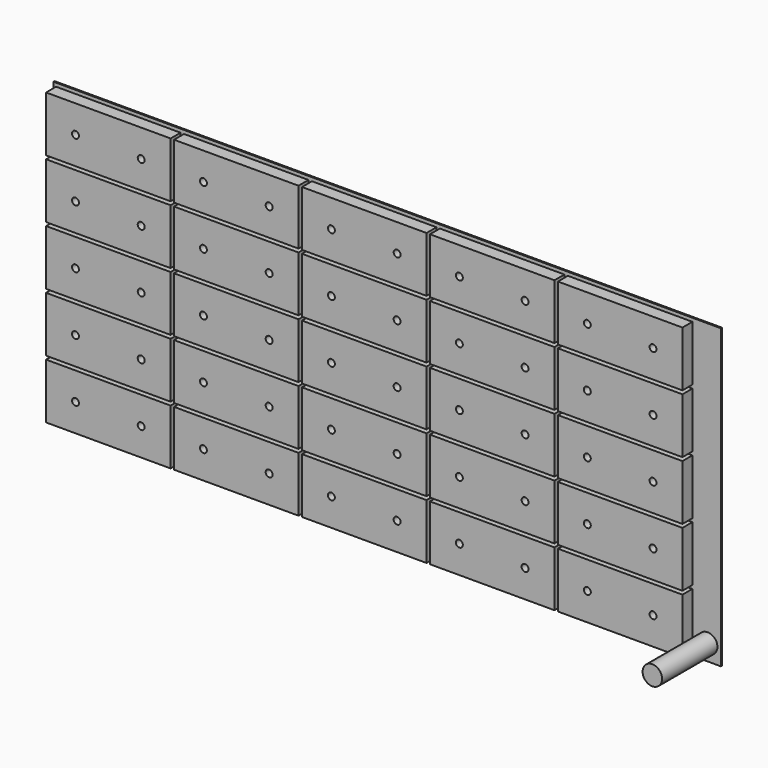
from build123d import *

# Parameters (mm, degrees)
F1_W     = 96.476763
F1_H     = 43.027435
F2_DEPTH = 0.2
F3_R     = 1.408537
F4_DEPTH = 10
F0_W     = 18
F0_H     = 8
F0_R     = 0.5
F5_DEPTH = 2


with BuildPart() as f2:
    # F1 (on Front) → F2 (new body)
    with BuildSketch(Plane.XZ):
        with Locations((38.870699, 16.998278)):
            Rectangle(F1_W, F1_H)
    extrude(amount=F2_DEPTH)

    # F3 (on face) → F4 (join)
    with BuildSketch(Plane.XZ.offset(0.2)):
        with Locations((85.209101, -2.20358)):
            Circle(F3_R)
    extrude(amount=F4_DEPTH)

    # F0 (on Front) → F5 (join)
    with BuildSketch(Plane.XZ):
        Rectangle(F0_W, F0_H)
        with Locations((-4.75, 0)):
            Circle(F0_R, mode=Mode.SUBTRACT)
        with Locations((4.75, 0)):
            Circle(F0_R, mode=Mode.SUBTRACT)
        with Locations((0, 8.5)):
            Rectangle(F0_W, F0_H)
        with Locations((-4.75, 8.5)):
            Circle(F0_R, mode=Mode.SUBTRACT)
        with Locations((4.75, 8.5)):
            Circle(F0_R, mode=Mode.SUBTRACT)
        with Locations((0, 17)):
            Rectangle(F0_W, F0_H)
        with Locations((-4.75, 17)):
            Circle(F0_R, mode=Mode.SUBTRACT)
        with Locations((4.75, 17)):
            Circle(F0_R, mode=Mode.SUBTRACT)
        with Locations((0, 25.5)):
            Rectangle(F0_W, F0_H)
        with Locations((-4.75, 25.5)):
            Circle(F0_R, mode=Mode.SUBTRACT)
        with Locations((4.75, 25.5)):
            Circle(F0_R, mode=Mode.SUBTRACT)
        with Locations((0, 34)):
            Rectangle(F0_W, F0_H)
        with Locations((-4.75, 34)):
            Circle(F0_R, mode=Mode.SUBTRACT)
        with Locations((4.75, 34)):
            Circle(F0_R, mode=Mode.SUBTRACT)
        with Locations((18.5, 0)):
            Rectangle(F0_W, F0_H)
        with Locations((13.75, 0)):
            Circle(F0_R, mode=Mode.SUBTRACT)
        with Locations((23.25, 0)):
            Circle(F0_R, mode=Mode.SUBTRACT)
        with Locations((18.5, 8.5)):
            Rectangle(F0_W, F0_H)
        with Locations((13.75, 8.5)):
            Circle(F0_R, mode=Mode.SUBTRACT)
        with Locations((23.25, 8.5)):
            Circle(F0_R, mode=Mode.SUBTRACT)
        with Locations((18.5, 17)):
            Rectangle(F0_W, F0_H)
        with Locations((13.75, 17)):
            Circle(F0_R, mode=Mode.SUBTRACT)
        with Locations((23.25, 17)):
            Circle(F0_R, mode=Mode.SUBTRACT)
        with Locations((18.5, 25.5)):
            Rectangle(F0_W, F0_H)
        with Locations((13.75, 25.5)):
            Circle(F0_R, mode=Mode.SUBTRACT)
        with Locations((23.25, 25.5)):
            Circle(F0_R, mode=Mode.SUBTRACT)
        with Locations((18.5, 34)):
            Rectangle(F0_W, F0_H)
        with Locations((13.75, 34)):
            Circle(F0_R, mode=Mode.SUBTRACT)
        with Locations((23.25, 34)):
            Circle(F0_R, mode=Mode.SUBTRACT)
        with Locations((37, 0)):
            Rectangle(F0_W, F0_H)
        with Locations((32.25, 0)):
            Circle(F0_R, mode=Mode.SUBTRACT)
        with Locations((41.75, 0)):
            Circle(F0_R, mode=Mode.SUBTRACT)
        with Locations((37, 8.5)):
            Rectangle(F0_W, F0_H)
        with Locations((32.25, 8.5)):
            Circle(F0_R, mode=Mode.SUBTRACT)
        with Locations((41.75, 8.5)):
            Circle(F0_R, mode=Mode.SUBTRACT)
        with Locations((37, 17)):
            Rectangle(F0_W, F0_H)
        with Locations((32.25, 17)):
            Circle(F0_R, mode=Mode.SUBTRACT)
        with Locations((41.75, 17)):
            Circle(F0_R, mode=Mode.SUBTRACT)
        with Locations((37, 25.5)):
            Rectangle(F0_W, F0_H)
        with Locations((32.25, 25.5)):
            Circle(F0_R, mode=Mode.SUBTRACT)
        with Locations((41.75, 25.5)):
            Circle(F0_R, mode=Mode.SUBTRACT)
        with Locations((37, 34)):
            Rectangle(F0_W, F0_H)
        with Locations((32.25, 34)):
            Circle(F0_R, mode=Mode.SUBTRACT)
        with Locations((41.75, 34)):
            Circle(F0_R, mode=Mode.SUBTRACT)
        with Locations((55.5, 0)):
            Rectangle(F0_W, F0_H)
        with Locations((50.75, 0)):
            Circle(F0_R, mode=Mode.SUBTRACT)
        with Locations((60.25, 0)):
            Circle(F0_R, mode=Mode.SUBTRACT)
        with Locations((55.5, 8.5)):
            Rectangle(F0_W, F0_H)
        with Locations((50.75, 8.5)):
            Circle(F0_R, mode=Mode.SUBTRACT)
        with Locations((60.25, 8.5)):
            Circle(F0_R, mode=Mode.SUBTRACT)
        with Locations((55.5, 17)):
            Rectangle(F0_W, F0_H)
        with Locations((50.75, 17)):
            Circle(F0_R, mode=Mode.SUBTRACT)
        with Locations((60.25, 17)):
            Circle(F0_R, mode=Mode.SUBTRACT)
        with Locations((55.5, 25.5)):
            Rectangle(F0_W, F0_H)
        with Locations((50.75, 25.5)):
            Circle(F0_R, mode=Mode.SUBTRACT)
        with Locations((60.25, 25.5)):
            Circle(F0_R, mode=Mode.SUBTRACT)
        with Locations((55.5, 34)):
            Rectangle(F0_W, F0_H)
        with Locations((50.75, 34)):
            Circle(F0_R, mode=Mode.SUBTRACT)
        with Locations((60.25, 34)):
            Circle(F0_R, mode=Mode.SUBTRACT)
        with Locations((74, 0)):
            Rectangle(F0_W, F0_H)
        with Locations((69.25, 0)):
            Circle(F0_R, mode=Mode.SUBTRACT)
        with Locations((78.75, 0)):
            Circle(F0_R, mode=Mode.SUBTRACT)
        with Locations((74, 8.5)):
            Rectangle(F0_W, F0_H)
        with Locations((69.25, 8.5)):
            Circle(F0_R, mode=Mode.SUBTRACT)
        with Locations((78.75, 8.5)):
            Circle(F0_R, mode=Mode.SUBTRACT)
        with Locations((74, 17)):
            Rectangle(F0_W, F0_H)
        with Locations((69.25, 17)):
            Circle(F0_R, mode=Mode.SUBTRACT)
        with Locations((78.75, 17)):
            Circle(F0_R, mode=Mode.SUBTRACT)
        with Locations((74, 25.5)):
            Rectangle(F0_W, F0_H)
        with Locations((69.25, 25.5)):
            Circle(F0_R, mode=Mode.SUBTRACT)
        with Locations((78.75, 25.5)):
            Circle(F0_R, mode=Mode.SUBTRACT)
        with Locations((74, 34)):
            Rectangle(F0_W, F0_H)
        with Locations((69.25, 34)):
            Circle(F0_R, mode=Mode.SUBTRACT)
        with Locations((78.75, 34)):
            Circle(F0_R, mode=Mode.SUBTRACT)
    extrude(amount=F5_DEPTH)


solid = f2.part
